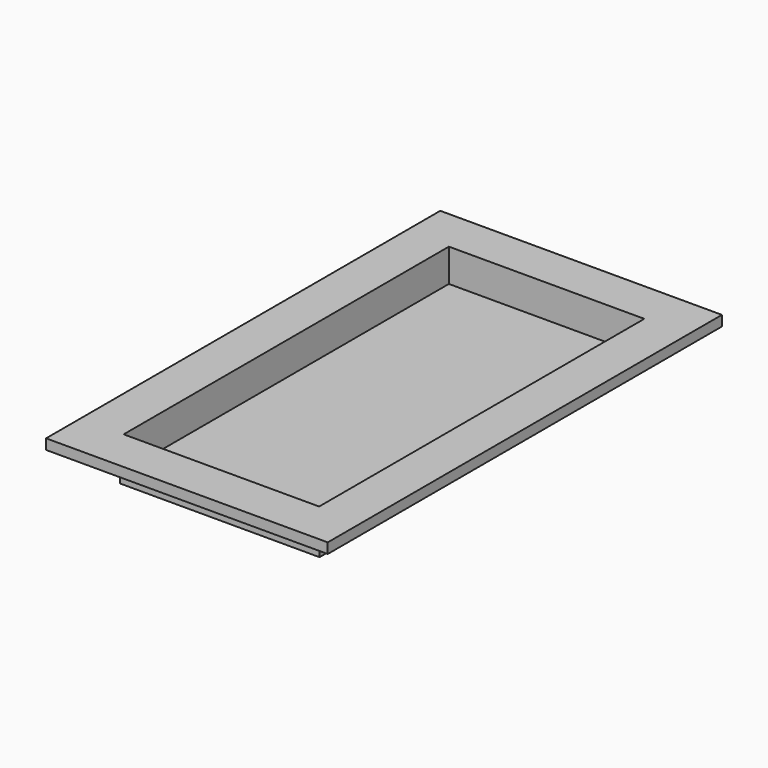
from build123d import *

# Parameters (mm, degrees)
F0_W     = 61.722
F0_H     = 127
F1_DEPTH = 10.16
F2_W     = 87.122
F2_H     = 152.4
F3_DEPTH = 3.175
F4_W     = 60.452
F4_H     = 125.73
F5_DEPTH = 10.16


with BuildPart() as f1:
    # F0 (on Top) → F1 (new body)
    with BuildSketch(Plane.XY):
        Rectangle(F0_W, F0_H)
    extrude(amount=F1_DEPTH)

    # F2 (on face) → F3 (join)
    with BuildSketch(Plane.XY.offset(10.16)):
        Rectangle(F2_W, F2_H)
    extrude(amount=F3_DEPTH)

    # F4 (on face) → F5 (cut)
    with BuildSketch(Plane.XY.offset(13.335)):
        Rectangle(F4_W, F4_H)
    extrude(amount=-F5_DEPTH, mode=Mode.SUBTRACT)


solid = f1.part
